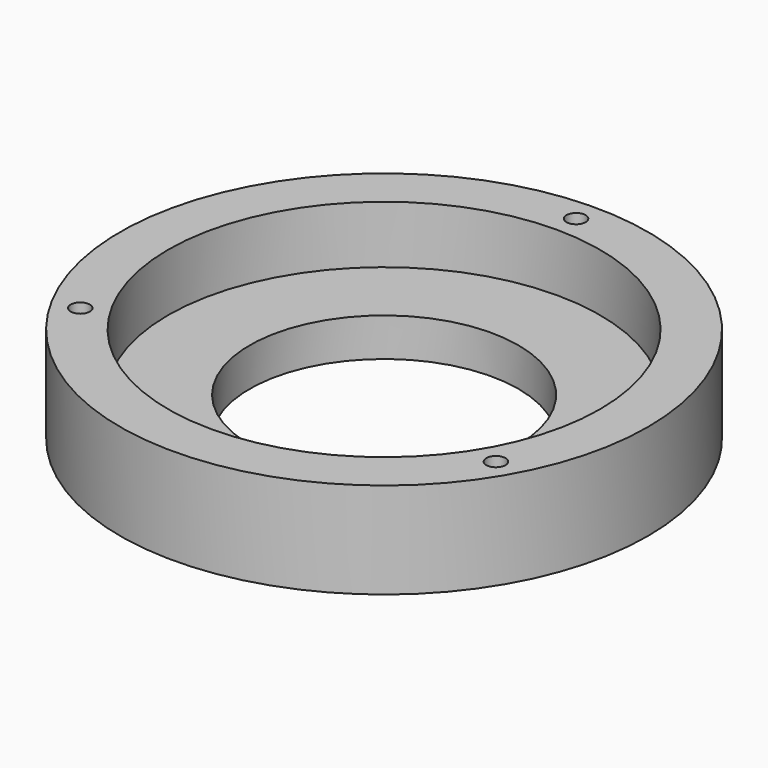
from build123d import *

# Parameters (mm, degrees)
SKETCH_R      = 27.5
SKETCH_R_2    = 22.5
SKETCH_R_3    = 1
PAD_DEPTH     = 10
SKETCH001_R   = 22.5
SKETCH001_R_2 = 14
PAD001_DEPTH  = 4


with BuildPart() as part:
    # Sketch → Pad (new body)
    with BuildSketch(Plane.XY):
        Circle(SKETCH_R)
        Circle(SKETCH_R_2, mode=Mode.SUBTRACT)
        with Locations((0, 25)):
            Circle(SKETCH_R_3, mode=Mode.SUBTRACT)
        with Locations((-21.650635, -12.5)):
            Circle(SKETCH_R_3, mode=Mode.SUBTRACT)
        with Locations((21.650635, -12.5)):
            Circle(SKETCH_R_3, mode=Mode.SUBTRACT)
    extrude(amount=PAD_DEPTH)

    # Sketch001 → Pad001 (join)
    with BuildSketch(Plane.XY):
        Circle(SKETCH001_R)
        Circle(SKETCH001_R_2, mode=Mode.SUBTRACT)
    extrude(amount=PAD001_DEPTH)


solid = part.part
